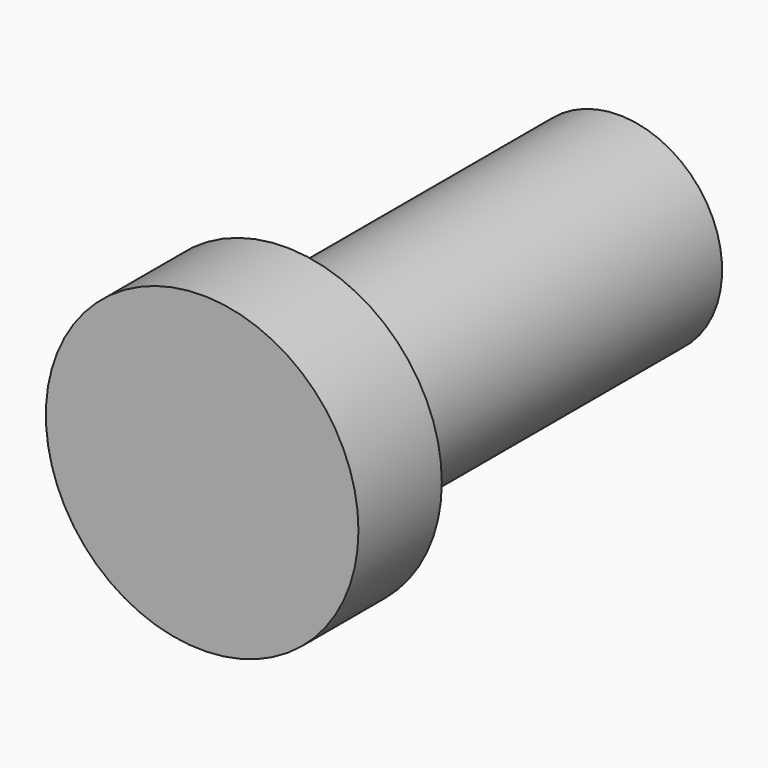
from build123d import *

# Parameters (mm, degrees)
F0_R     = 19.05
F1_DEPTH = 12.7
F2_R     = 12.573
F3_DEPTH = 50.8


with BuildPart() as f1:
    # F0 (on Front) → F1 (new body)
    with BuildSketch(Plane.XZ):
        Circle(F0_R)
    extrude(amount=F1_DEPTH)

    # F2 (on face) → F3 (join)
    with BuildSketch(Plane(origin=(0, 0, 0), x_dir=(-1, 0, 0), z_dir=(0, 1, 0))):
        Circle(F2_R)
    extrude(amount=F3_DEPTH)

    # F4 (on Right) → F5 (revolve, cut)
    with BuildSketch(Plane.YZ):
        with BuildLine():
            Line((44.45, 0), (57.15, 0))
            Line((57.15, 0), (69.85, 0))
            ThreePointArc((69.85, 0), (57.15, 12.7), (44.45, 0))
        make_face()
    revolve(axis=Axis((0, 63.5, 0), (0, 1, 0)), mode=Mode.SUBTRACT)


solid = f1.part
